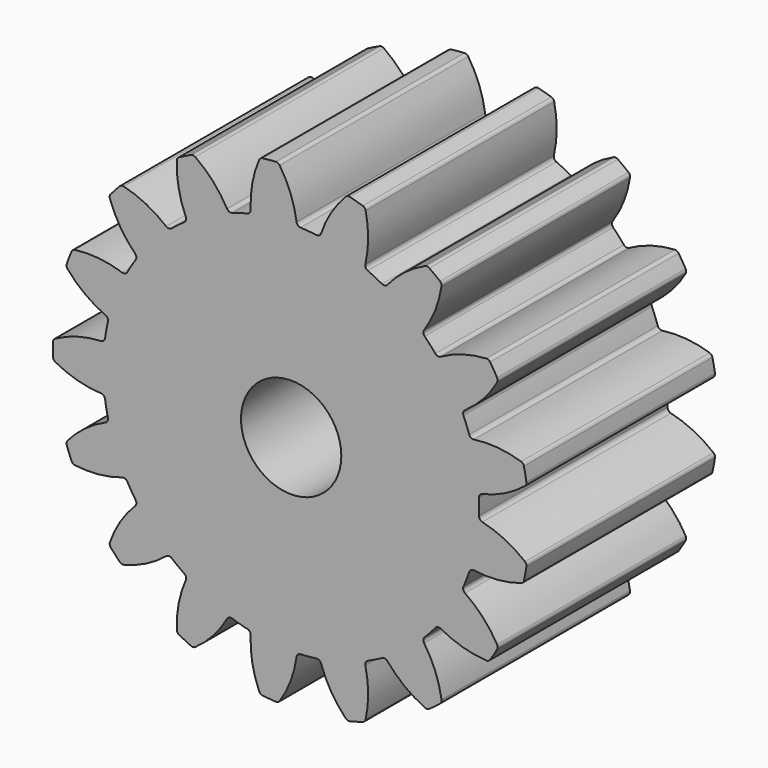
from build123d import *

# Parameters (mm, degrees)
F1_DEPTH = 4.7
F2_R     = 1
F3_DEPTH = 4.701


with BuildPart() as f1:
    # F0 (on Front) → F1 (new body)
    with BuildSketch(Plane.XZ):
        with BuildLine():
            ThreePointArc((0.10755, 3.818397), (-0.010961, 4.279436), (-0.229128, 4.702527))
            ThreePointArc((-0.229128, 4.702527), (-0.262172, 4.731554), (-0.3053, 4.740178))
            ThreePointArc((-0.3053, 4.740178), (-0.438275, 4.729737), (-0.570904, 4.715567))
            ThreePointArc((-0.570904, 4.715567), (-0.611713, 4.699164), (-0.63886, 4.66456))
            ThreePointArc((-0.63886, 4.66456), (-0.77557, 4.208585), (-0.807348, 3.733619))
            ThreePointArc((-0.807348, 3.733619), (-0.824351, 3.678638), (-0.872484, 3.647091))
            ThreePointArc((-0.872484, 3.647091), (-1.026236, 3.606846), (-1.178145, 3.560123))
            ThreePointArc((-1.178145, 3.560123), (-1.671519, 3.356862), (-2.131048, 3.085633))
            ThreePointArc((-2.131048, 3.085633), (-2.25988, 2.992565), (-2.384652, 2.89412))
            ThreePointArc((-2.384652, 2.89412), (-2.771283, 2.526359), (-3.101803, 2.107444))
            ThreePointArc((-3.101803, 2.107444), (-3.188314, 1.974121), (-3.269099, 1.837251))
            ThreePointArc((-3.269099, 1.837251), (-3.496771, 1.354656), (-3.653641, 0.844633))
            ThreePointArc((-3.653641, 0.844633), (-3.686149, 0.689061), (-3.712036, 0.532251))
            ThreePointArc((-3.712036, 0.532251), (-3.75, 0), (-3.712036, -0.532251))
            ThreePointArc((-3.712036, -0.532251), (-3.686149, -0.689061), (-3.653641, -0.844633))
            ThreePointArc((-3.653641, -0.844633), (-3.496771, -1.354656), (-3.269099, -1.837251))
            ThreePointArc((-3.269099, -1.837251), (-3.188314, -1.974121), (-3.101803, -2.107444))
            ThreePointArc((-3.101803, -2.107444), (-2.771283, -2.526359), (-2.384652, -2.89412))
            ThreePointArc((-2.384652, -2.89412), (-2.25988, -2.992565), (-2.131048, -3.085633))
            ThreePointArc((-2.131048, -3.085633), (-1.671519, -3.356862), (-1.178145, -3.560123))
            ThreePointArc((-1.178145, -3.560123), (-1.026236, -3.606846), (-0.872484, -3.647091))
            ThreePointArc((-0.872484, -3.647091), (-0.346006, -3.734003), (0.187477, -3.745311))
            ThreePointArc((0.187477, -3.745311), (0.346006, -3.734003), (0.503914, -3.715988))
            ThreePointArc((0.503914, -3.715988), (1.026236, -3.606846), (1.527779, -3.424674))
            ThreePointArc((1.527779, -3.424674), (1.671519, -3.356862), (1.812256, -3.283021))
            ThreePointArc((1.812256, -3.283021), (2.25988, -2.992565), (2.661747, -2.641516))
            ThreePointArc((2.661747, -2.641516), (2.771283, -2.526359), (2.875842, -2.406664))
            ThreePointArc((2.875842, -2.406664), (3.188314, -1.974121), (3.43623, -1.501606))
            ThreePointArc((3.43623, -1.501606), (3.496771, -1.354656), (3.55103, -1.205273))
            ThreePointArc((3.55103, -1.205273), (3.686149, -0.689061), (3.746632, -0.158897))
            ThreePointArc((3.746632, -0.158897), (3.75, 0), (3.746632, 0.158897))
            ThreePointArc((3.746632, 0.158897), (3.686149, 0.689061), (3.55103, 1.205273))
            ThreePointArc((3.55103, 1.205273), (3.496771, 1.354656), (3.43623, 1.501606))
            ThreePointArc((3.43623, 1.501606), (3.188314, 1.974121), (2.875842, 2.406664))
            ThreePointArc((2.875842, 2.406664), (2.771283, 2.526359), (2.661747, 2.641516))
            ThreePointArc((2.661747, 2.641516), (2.25988, 2.992565), (1.812256, 3.283021))
            ThreePointArc((1.812256, 3.283021), (1.671519, 3.356862), (1.527779, 3.424674))
            ThreePointArc((1.527779, 3.424674), (1.026236, 3.606846), (0.503914, 3.715988))
            ThreePointArc((0.503914, 3.715988), (0.346006, 3.734003), (0.187477, 3.745311))
            ThreePointArc((0.187477, 3.745311), (0.134367, 3.767476), (0.10755, 3.818397))
        make_face()
        with BuildLine():
            ThreePointArc((-2.131048, 3.085633), (-1.671519, 3.356862), (-1.178145, 3.560123))
            ThreePointArc((-1.178145, 3.560123), (-1.235676, 3.561606), (-1.279076, 3.599401))
            ThreePointArc((-1.279076, 3.599401), (-1.556132, 3.986496), (-1.912404, 4.302205))
            ThreePointArc((-1.912404, 4.302205), (-1.953702, 4.317335), (-1.997034, 4.309798))
            ThreePointArc((-1.997034, 4.309798), (-2.117257, 4.252026), (-2.235811, 4.190901))
            ThreePointArc((-2.235811, 4.190901), (-2.267939, 4.160864), (-2.280753, 4.118789))
            ThreePointArc((-2.280753, 4.118789), (-2.243514, 3.64422), (-2.101568, 3.189848))
            ThreePointArc((-2.101568, 3.189848), (-2.097561, 3.132438), (-2.131048, 3.085633))
        make_face()
        with BuildLine():
            ThreePointArc((-3.101803, 2.107444), (-2.771283, 2.526359), (-2.384652, 2.89412))
            ThreePointArc((-2.384652, 2.89412), (-2.438834, 2.874721), (-2.492957, 2.894286))
            ThreePointArc((-2.492957, 2.894286), (-2.891138, 3.155157), (-3.3374, 3.320847))
            ThreePointArc((-3.3374, 3.320847), (-3.381374, 3.320036), (-3.419057, 3.297355))
            ThreePointArc((-3.419057, 3.297355), (-3.510292, 3.200054), (-3.59876, 3.10023))
            ThreePointArc((-3.59876, 3.10023), (-3.617868, 3.060616), (-3.614617, 3.016754))
            ThreePointArc((-3.614617, 3.016754), (-3.408458, 2.587684), (-3.11196, 2.215271))
            ThreePointArc((-3.11196, 2.215271), (-3.087485, 2.163185), (-3.101803, 2.107444))
        make_face()
        with BuildLine():
            ThreePointArc((-3.653641, 0.844633), (-3.496771, 1.354656), (-3.269099, 1.837251))
            ThreePointArc((-3.269099, 1.837251), (-3.312614, 1.799589), (-3.370149, 1.798281))
            ThreePointArc((-3.370149, 1.798281), (-3.83568, 1.897697), (-4.311661, 1.89099))
            ThreePointArc((-4.311661, 1.89099), (-4.352373, 1.874348), (-4.379318, 1.839586))
            ThreePointArc((-4.379318, 1.839586), (-4.429243, 1.715898), (-4.475676, 1.590857))
            ThreePointArc((-4.475676, 1.590857), (-4.479183, 1.547015), (-4.460307, 1.507289))
            ThreePointArc((-4.460307, 1.507289), (-4.113072, 1.181666), (-3.702065, 0.941509))
            ThreePointArc((-3.702065, 0.941509), (-3.660426, 0.901782), (-3.653641, 0.844633))
        make_face()
        with BuildLine():
            ThreePointArc((-3.712036, -0.532251), (-3.75, 0), (-3.712036, 0.532251))
            ThreePointArc((-3.712036, 0.532251), (-3.739007, 0.481412), (-3.792185, 0.459409))
            ThreePointArc((-3.792185, 0.459409), (-4.262192, 0.383942), (-4.703608, 0.205744))
            ThreePointArc((-4.703608, 0.205744), (-4.73556, 0.175519), (-4.748127, 0.133371))
            ThreePointArc((-4.748127, 0.133371), (-4.75, 0), (-4.748127, -0.133371))
            ThreePointArc((-4.748127, -0.133371), (-4.73556, -0.175519), (-4.703608, -0.205744))
            ThreePointArc((-4.703608, -0.205744), (-4.262192, -0.383942), (-3.792185, -0.459409))
            ThreePointArc((-3.792185, -0.459409), (-3.739007, -0.481412), (-3.712036, -0.532251))
        make_face()
        with BuildLine():
            ThreePointArc((0.595909, 3.773144), (0.560193, 3.728017), (0.503914, 3.715988))
            ThreePointArc((0.503914, 3.715988), (1.026236, 3.606846), (1.527779, 3.424674))
            ThreePointArc((1.527779, 3.424674), (1.486262, 3.464528), (1.479652, 3.521697))
            ThreePointArc((1.479652, 3.521697), (1.53569, 3.994415), (1.485093, 4.467746))
            ThreePointArc((1.485093, 4.467746), (1.464766, 4.50675), (1.427666, 4.530372))
            ThreePointArc((1.427666, 4.530372), (1.299899, 4.568672), (1.171107, 4.603369))
            ThreePointArc((1.171107, 4.603369), (1.127129, 4.602816), (1.089314, 4.580355))
            ThreePointArc((1.089314, 4.580355), (0.797119, 4.204557), (0.595909, 3.773144))
        make_face()
        with BuildLine():
            ThreePointArc((1.918686, 3.303084), (1.86908, 3.273908), (1.812256, 3.283021))
            ThreePointArc((1.812256, 3.283021), (2.25988, 2.992565), (2.661747, 2.641516))
            ThreePointArc((2.661747, 2.641516), (2.63743, 2.693676), (2.651918, 2.749373))
            ThreePointArc((2.651918, 2.749373), (2.874937, 3.169926), (2.998744, 3.629572))
            ThreePointArc((2.998744, 3.629572), (2.99388, 3.673284), (2.967818, 3.708713))
            ThreePointArc((2.967818, 3.708713), (2.862515, 3.790582), (2.754954, 3.869461))
            ThreePointArc((2.754954, 3.869461), (2.713745, 3.884832), (2.67037, 3.877549))
            ThreePointArc((2.67037, 3.877549), (2.262152, 3.63268), (1.918686, 3.303084))
        make_face()
        with BuildLine():
            ThreePointArc((2.982333, 2.386925), (2.925537, 2.377638), (2.875842, 2.406664))
            ThreePointArc((2.875842, 2.406664), (3.188314, 1.974121), (3.43623, 1.501606))
            ThreePointArc((3.43623, 1.501606), (3.432399, 1.559029), (3.466028, 1.605731))
            ThreePointArc((3.466028, 1.605731), (3.825909, 1.917321), (4.107398, 2.301204))
            ThreePointArc((4.107398, 2.301204), (4.118653, 2.343721), (4.10715, 2.386173))
            ThreePointArc((4.10715, 2.386173), (4.038531, 2.500553), (3.966728, 2.612961))
            ThreePointArc((3.966728, 2.612961), (3.933855, 2.64218), (3.890778, 2.651058))
            ThreePointArc((3.890778, 2.651058), (3.421669, 2.57019), (2.982333, 2.386925))
        make_face()
        with BuildLine():
            ThreePointArc((3.643199, 1.148399), (3.586884, 1.160256), (3.55103, 1.205273))
            ThreePointArc((3.55103, 1.205273), (3.686149, 0.689061), (3.746632, 0.158897))
            ThreePointArc((3.746632, 0.158897), (3.763802, 0.213826), (3.812032, 0.245226))
            ThreePointArc((3.812032, 0.245226), (4.26017, 0.405771), (4.661326, 0.662045))
            ThreePointArc((4.661326, 0.662045), (4.687179, 0.697626), (4.691788, 0.741366))
            ThreePointArc((4.691788, 0.741366), (4.669122, 0.87281), (4.642775, 1.003566))
            ThreePointArc((4.642775, 1.003566), (4.622676, 1.042688), (4.585715, 1.066526))
            ThreePointArc((4.585715, 1.066526), (4.119071, 1.160581), (3.643199, 1.148399))
        make_face()
        with BuildLine():
            ThreePointArc((3.812032, -0.245226), (3.763802, -0.213826), (3.746632, -0.158897))
            ThreePointArc((3.746632, -0.158897), (3.686149, -0.689061), (3.55103, -1.205273))
            ThreePointArc((3.55103, -1.205273), (3.586884, -1.160256), (3.643199, -1.148399))
            ThreePointArc((3.643199, -1.148399), (4.119071, -1.160581), (4.585715, -1.066526))
            ThreePointArc((4.585715, -1.066526), (4.622676, -1.042688), (4.642775, -1.003566))
            ThreePointArc((4.642775, -1.003566), (4.669122, -0.87281), (4.691788, -0.741366))
            ThreePointArc((4.691788, -0.741366), (4.687179, -0.697626), (4.661326, -0.662045))
            ThreePointArc((4.661326, -0.662045), (4.26017, -0.405771), (3.812032, -0.245226))
        make_face()
        with BuildLine():
            ThreePointArc((3.466028, -1.605731), (3.432399, -1.559029), (3.43623, -1.501606))
            ThreePointArc((3.43623, -1.501606), (3.188314, -1.974121), (2.875842, -2.406664))
            ThreePointArc((2.875842, -2.406664), (2.925537, -2.377638), (2.982333, -2.386925))
            ThreePointArc((2.982333, -2.386925), (3.421669, -2.57019), (3.890778, -2.651058))
            ThreePointArc((3.890778, -2.651058), (3.933855, -2.64218), (3.966728, -2.612961))
            ThreePointArc((3.966728, -2.612961), (4.038531, -2.500553), (4.10715, -2.386173))
            ThreePointArc((4.10715, -2.386173), (4.118653, -2.343721), (4.107398, -2.301204))
            ThreePointArc((4.107398, -2.301204), (3.825909, -1.917321), (3.466028, -1.605731))
        make_face()
        with BuildLine():
            ThreePointArc((2.651918, -2.749373), (2.63743, -2.693676), (2.661747, -2.641516))
            ThreePointArc((2.661747, -2.641516), (2.25988, -2.992565), (1.812256, -3.283021))
            ThreePointArc((1.812256, -3.283021), (1.86908, -3.273908), (1.918686, -3.303084))
            ThreePointArc((1.918686, -3.303084), (2.262152, -3.63268), (2.67037, -3.877549))
            ThreePointArc((2.67037, -3.877549), (2.713745, -3.884832), (2.754954, -3.869461))
            ThreePointArc((2.754954, -3.869461), (2.862515, -3.790582), (2.967818, -3.708713))
            ThreePointArc((2.967818, -3.708713), (2.99388, -3.673284), (2.998744, -3.629572))
            ThreePointArc((2.998744, -3.629572), (2.874937, -3.169926), (2.651918, -2.749373))
        make_face()
        with BuildLine():
            ThreePointArc((1.479652, -3.521697), (1.486262, -3.464528), (1.527779, -3.424674))
            ThreePointArc((1.527779, -3.424674), (1.026236, -3.606846), (0.503914, -3.715988))
            ThreePointArc((0.503914, -3.715988), (0.560193, -3.728017), (0.595909, -3.773144))
            ThreePointArc((0.595909, -3.773144), (0.797119, -4.204557), (1.089314, -4.580355))
            ThreePointArc((1.089314, -4.580355), (1.127129, -4.602816), (1.171107, -4.603369))
            ThreePointArc((1.171107, -4.603369), (1.299899, -4.568672), (1.427666, -4.530372))
            ThreePointArc((1.427666, -4.530372), (1.464766, -4.50675), (1.485093, -4.467746))
            ThreePointArc((1.485093, -4.467746), (1.53569, -3.994415), (1.479652, -3.521697))
        make_face()
        with BuildLine():
            ThreePointArc((0.10755, -3.818397), (0.134367, -3.767476), (0.187477, -3.745311))
            ThreePointArc((0.187477, -3.745311), (-0.346006, -3.734003), (-0.872484, -3.647091))
            ThreePointArc((-0.872484, -3.647091), (-0.824351, -3.678638), (-0.807348, -3.733619))
            ThreePointArc((-0.807348, -3.733619), (-0.77557, -4.208585), (-0.63886, -4.66456))
            ThreePointArc((-0.63886, -4.66456), (-0.611713, -4.699164), (-0.570904, -4.715567))
            ThreePointArc((-0.570904, -4.715567), (-0.438275, -4.729737), (-0.3053, -4.740178))
            ThreePointArc((-0.3053, -4.740178), (-0.262172, -4.731554), (-0.229128, -4.702527))
            ThreePointArc((-0.229128, -4.702527), (-0.010961, -4.279436), (0.10755, -3.818397))
        make_face()
        with BuildLine():
            ThreePointArc((-1.178145, -3.560123), (-1.671519, -3.356862), (-2.131048, -3.085633))
            ThreePointArc((-2.131048, -3.085633), (-2.097561, -3.132438), (-2.101568, -3.189848))
            ThreePointArc((-2.101568, -3.189848), (-2.243514, -3.64422), (-2.280753, -4.118789))
            ThreePointArc((-2.280753, -4.118789), (-2.267939, -4.160864), (-2.235811, -4.190901))
            ThreePointArc((-2.235811, -4.190901), (-2.117257, -4.252026), (-1.997034, -4.309798))
            ThreePointArc((-1.997034, -4.309798), (-1.953702, -4.317335), (-1.912404, -4.302205))
            ThreePointArc((-1.912404, -4.302205), (-1.556132, -3.986496), (-1.279076, -3.599401))
            ThreePointArc((-1.279076, -3.599401), (-1.235676, -3.561606), (-1.178145, -3.560123))
        make_face()
        with BuildLine():
            ThreePointArc((-2.384652, -2.89412), (-2.771283, -2.526359), (-3.101803, -2.107444))
            ThreePointArc((-3.101803, -2.107444), (-3.087485, -2.163185), (-3.11196, -2.215271))
            ThreePointArc((-3.11196, -2.215271), (-3.408458, -2.587684), (-3.614617, -3.016754))
            ThreePointArc((-3.614617, -3.016754), (-3.617868, -3.060616), (-3.59876, -3.10023))
            ThreePointArc((-3.59876, -3.10023), (-3.510292, -3.200054), (-3.419057, -3.297355))
            ThreePointArc((-3.419057, -3.297355), (-3.381374, -3.320036), (-3.3374, -3.320847))
            ThreePointArc((-3.3374, -3.320847), (-2.891138, -3.155157), (-2.492957, -2.894286))
            ThreePointArc((-2.492957, -2.894286), (-2.438834, -2.874721), (-2.384652, -2.89412))
        make_face()
        with BuildLine():
            ThreePointArc((-3.269099, -1.837251), (-3.496771, -1.354656), (-3.653641, -0.844633))
            ThreePointArc((-3.653641, -0.844633), (-3.660426, -0.901782), (-3.702065, -0.941509))
            ThreePointArc((-3.702065, -0.941509), (-4.113072, -1.181666), (-4.460307, -1.507289))
            ThreePointArc((-4.460307, -1.507289), (-4.479183, -1.547015), (-4.475676, -1.590857))
            ThreePointArc((-4.475676, -1.590857), (-4.429243, -1.715898), (-4.379318, -1.839586))
            ThreePointArc((-4.379318, -1.839586), (-4.352373, -1.874348), (-4.311661, -1.89099))
            ThreePointArc((-4.311661, -1.89099), (-3.83568, -1.897697), (-3.370149, -1.798281))
            ThreePointArc((-3.370149, -1.798281), (-3.312614, -1.799589), (-3.269099, -1.837251))
        make_face()
    extrude(amount=F1_DEPTH)

    # F2 (on face) → F3 (cut, through all)
    with BuildSketch(Plane.XZ.offset(4.7)):
        Circle(F2_R)
    extrude(amount=-F3_DEPTH, mode=Mode.SUBTRACT)


solid = f1.part
